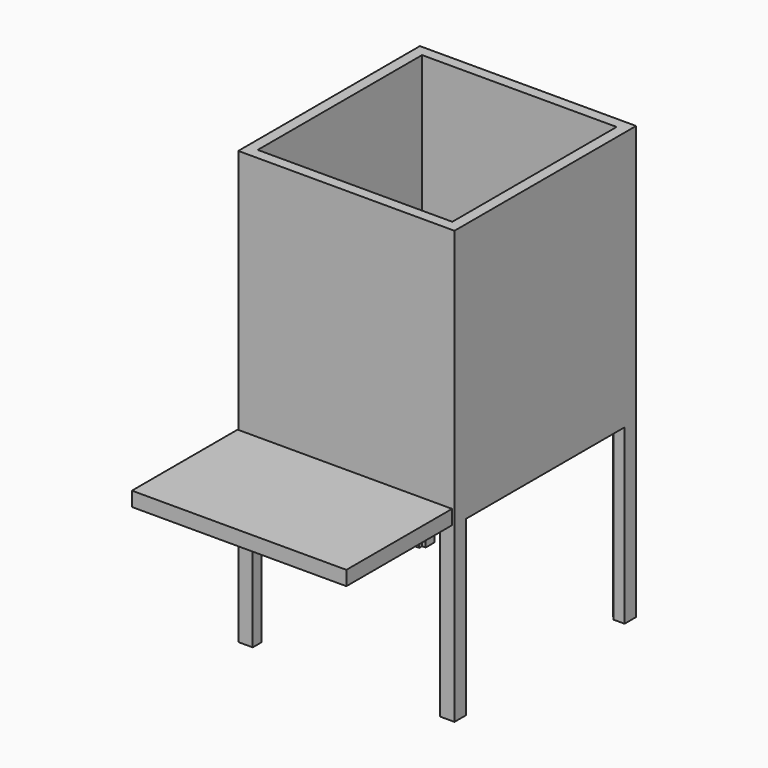
from build123d import *

# Parameters (mm, degrees)
F0_W      = 1524
F0_H      = 3048
F1_DEPTH  = 76.2
F2_W      = 1524
F2_H      = 3048
F3_DEPTH  = 76.2
F4_W      = 1524
F4_H      = 3048
F5_DEPTH  = 76.2
F6_W      = 1371.6
F6_H      = 3048
F7_DEPTH  = 76.2
F8_W      = 1397
F8_H      = 1219.2
F9_DEPTH  = 1574.8
F10_W     = 1320.8
F10_H     = 1219.2
F11_DEPTH = 1676.4
F12_W     = 1511.697054
F12_H     = 931.223624
F13_DEPTH = 101.6


with BuildPart() as f1:
    # F0 (on Front) → F1 (new body)
    with BuildSketch(Plane.XZ):
        with Locations((762, 1524)):
            Rectangle(F0_W, F0_H)
    extrude(amount=F1_DEPTH)

    # F2 (on face) → F3 (join)
    with BuildSketch(Plane.YZ.offset(1524)):
        with Locations((762, 1524)):
            Rectangle(F2_W, F2_H)
    extrude(amount=-F3_DEPTH)

    # F4 (on face) → F5 (join)
    with BuildSketch(Plane(origin=(0, 0, 0), x_dir=(0, -1, 0), z_dir=(-1, 0, 0))):
        with Locations((-762, 1524)):
            Rectangle(F4_W, F4_H)
    extrude(amount=-F5_DEPTH)

    # F6 (on face) → F7 (join)
    with BuildSketch(Plane(origin=(0, 1524, 0), x_dir=(-1, 0, 0), z_dir=(0, 1, 0))):
        with Locations((-762, 1524)):
            Rectangle(F6_W, F6_H)
    extrude(amount=-F7_DEPTH)

    # F8 (on face) → F9 (cut)
    with BuildSketch(Plane.YZ.offset(1524)):
        with Locations((723.9, 609.6)):
            Rectangle(F8_W, F8_H)
    extrude(amount=-F9_DEPTH, mode=Mode.SUBTRACT)

    # F10 (on face) → F11 (cut)
    with BuildSketch(Plane.XZ.offset(76.2)):
        with Locations((762, 609.6)):
            Rectangle(F10_W, F10_H)
    extrude(amount=-F11_DEPTH, mode=Mode.SUBTRACT)


with BuildPart() as f13:
    # F12 (on face) → F13 (new body)
    with BuildSketch(Plane(origin=(0, 0, 1219.2), x_dir=(1, 0, 0), z_dir=(0, 0, -1))):
        with Locations((755.848527, 547.935847)):
            Rectangle(F12_W, F12_H)
    extrude(amount=-F13_DEPTH)


solid = Compound([f1.part, f13.part])
